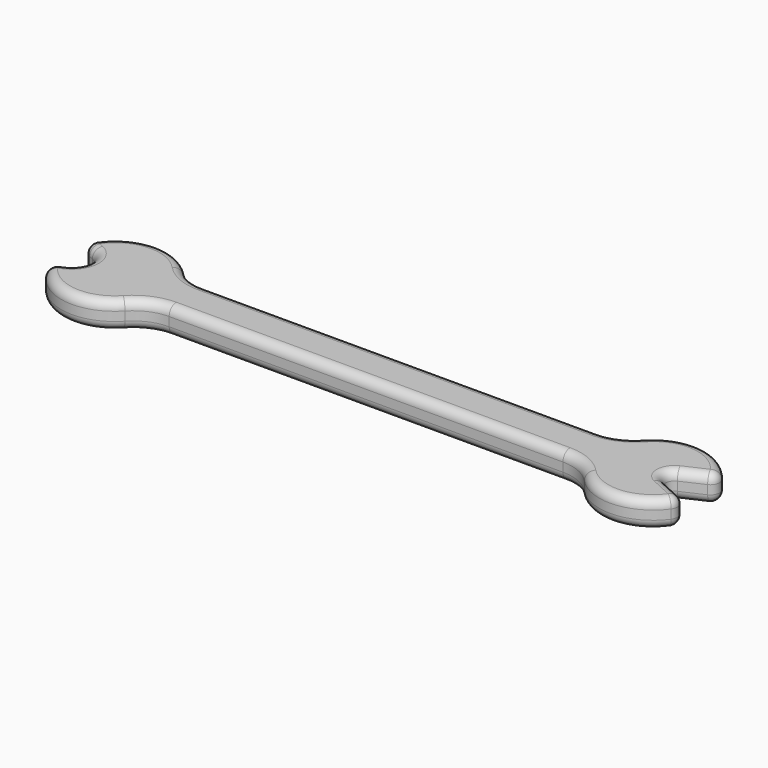
from build123d import *

# Parameters (mm, degrees)
F1_DEPTH = 3
F2_R     = 5
F3_R     = 1


with BuildPart() as f1:
    # F0 (on Top) → F1 (new body)
    with BuildSketch(Plane.XY):
        with BuildLine():
            Line((0, 5), (0, 0))
            Line((0, 0), (5.4543560573, 0))
            ThreePointArc((5.4543560573, 0), (6, 2.5), (5.4543560573, 5))
            Line((5.4543560573, 5), (0, 5))
        make_face()
        with BuildLine():
            Line((-5.4543560573, 0), (0, 0))
            Line((0, 0), (0, 5))
            Line((0, 5), (-5.4543560573, 5))
            Line((-5.4543560573, 5), (-3.9666666667, 4.3181186858))
            ThreePointArc((-3.9666666667, 4.3181186858), (-2.8, 2.5), (-3.9666666667, 0.6818813142))
            Line((-3.9666666667, 0.6818813142), (-5.4543560573, 0))
        make_face()
        with BuildLine():
            Line((5.4543560573, 0), (0, 0))
            Line((0, 0), (-5.4543560573, 0))
            ThreePointArc((-5.4543560573, 0), (0, -3.5), (5.4543560573, 0))
        make_face()
        with BuildLine():
            ThreePointArc((5.4543560573, 5), (6, 2.5), (5.4543560573, 0))
            Line((5.4543560573, 0), (54.5456439427, 0))
            ThreePointArc((54.5456439427, 0), (54, 2.5), (54.5456439427, 5))
            Line((54.5456439427, 5), (5.4543560573, 5))
        make_face()
        with BuildLine():
            Line((-5.4543560573, 5), (0, 5))
            Line((0, 5), (5.4543560573, 5))
            ThreePointArc((5.4543560573, 5), (0, 8.5), (-5.4543560573, 5))
        make_face()
        with BuildLine():
            ThreePointArc((54.5456439427, 5), (54, 2.5), (54.5456439427, 0))
            Line((54.5456439427, 0), (60, 0))
            Line((60, 0), (60, 2.5))
            Line((60, 2.5), (60, 5))
            Line((60, 5), (54.5456439427, 5))
        make_face()
        with BuildLine():
            Line((60, 0), (54.5456439427, 0))
            ThreePointArc((54.5456439427, 0), (60, -3.5), (65.4543560573, 0))
            Line((65.4543560573, 0), (60, 0))
        make_face()
        Polygon((60, 2.5), (60, 0), (65.4543560573, 0), (61.9833333333, 1.5909406571), align=None)
        with BuildLine():
            ThreePointArc((65.4543560573, 5), (60, 8.5), (54.5456439427, 5))
            Line((54.5456439427, 5), (60, 5))
            Line((60, 5), (65.4543560573, 5))
        make_face()
        with BuildLine():
            Line((61.9833333333, 3.4090593429), (60, 2.5))
            Line((60, 2.5), (61.9833333333, 1.5909406571))
            ThreePointArc((61.9833333333, 1.5909406571), (61.4, 2.5), (61.9833333333, 3.4090593429))
        make_face()
        Polygon((60, 5), (60, 2.5), (61.9833333333, 3.4090593429), (65.4543560573, 5), align=None)
        with BuildLine():
            Line((0, 5), (0, 0))
            Line((0, 0), (5.4543560573, 0))
            ThreePointArc((5.4543560573, 0), (6, 2.5), (5.4543560573, 5))
            Line((5.4543560573, 5), (0, 5))
        make_face()
    extrude(amount=F1_DEPTH)

    # F2
    f2_edges = [f1.edges().sort_by_distance(p)[0] for p in [
        (5.454356, 0, 1.5),
        (54.545644, 0, 1.5),
        (54.545644, 5, 1.5),
        (5.454356, 5, 1.5),
    ]]
    fillet(f2_edges, radius=F2_R)

    # F3
    f3_edges = [f1.edges().sort_by_distance(p)[0] for p in [
        (-0.957301, 8.423139, 3),
        (6.052428, 5.414945, 3),
        (-4.710511, 4.659059, 3),
        (30, 5, 3),
        (-2.8, 2.5, 3),
        (53.947572, 5.414945, 3),
        (-4.710511, 0.340941, 3),
        (60.957301, 8.423139, 3),
        (-0.957301, -3.423139, 3),
        (63.718845, 4.20453, 3),
        (6.052428, -0.414945, 3),
        (61.4, 2.5, 3),
        (30, 0, 3),
        (63.718845, 0.79547, 3),
        (53.947572, -0.414945, 3),
        (60.957301, -3.423139, 3),
        (-0.957301, 8.423139, 0),
        (6.052428, 5.414945, 0),
        (-4.710511, 4.659059, 0),
        (30, 5, 0),
        (-2.8, 2.5, 0),
        (53.947572, 5.414945, 0),
        (-4.710511, 0.340941, 0),
        (60.957301, 8.423139, 0),
        (-0.957301, -3.423139, 0),
        (63.718845, 4.20453, 0),
        (6.052428, -0.414945, 0),
        (61.4, 2.5, 0),
        (30, 0, 0),
        (63.718845, 0.79547, 0),
        (53.947572, -0.414945, 0),
        (60.957301, -3.423139, 0),
        (65.454356, 0, 1.5),
        (65.454356, 5, 1.5),
        (-5.454356, 0, 1.5),
        (-5.454356, 5, 1.5),
    ]]
    fillet(f3_edges, radius=F3_R)


solid = f1.part
